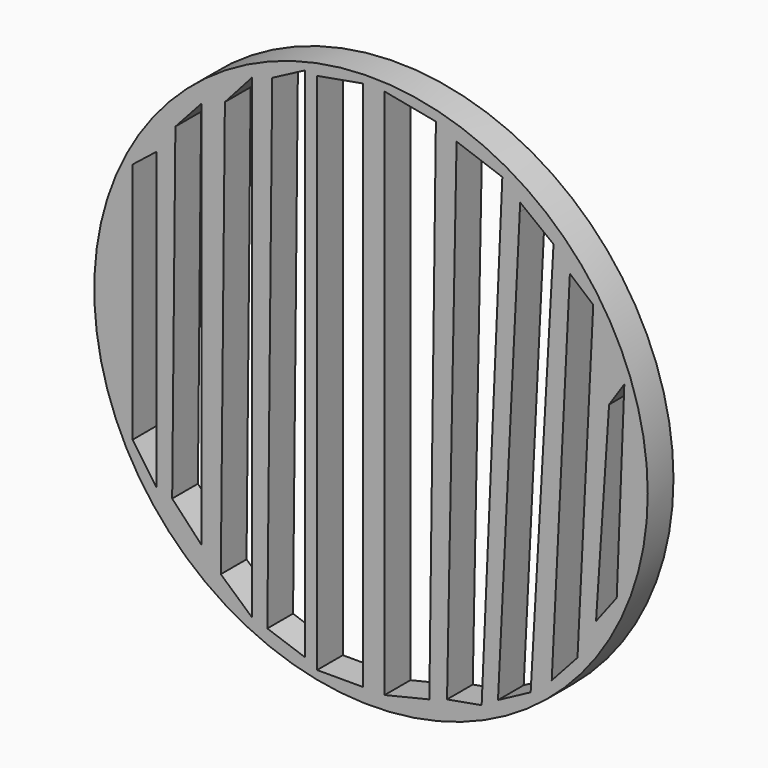
from build123d import *

# Parameters (mm, degrees)
F0_R     = 25.81628
F1_DEPTH = 3
F3_DEPTH = 25
F5_DEPTH = 25


with BuildPart() as f1:
    # F0 (on Front) → F1 (new body)
    with BuildSketch(Plane.XZ):
        Circle(F0_R)
    extrude(amount=F1_DEPTH)

    # F2 (on face) → F3 (cut)
    with BuildSketch(Plane.XZ.offset(3)):
        Polygon((-22.232322, 11.412702), (-22.232322, -11.196028), (-20.024735, -14.393222), (-20.024735, 13.163546), align=None)
        Polygon((-11.118267, 22.146139), (-13.630347, 19.329563), (-14.010966, -19.569632), (-11.118267, -22.157835), align=None)
        Polygon((-6.170227, 24.353726), (-9.215174, 22.755129), (-9.671916, -22.61458), (-6.170227, -23.832556), align=None)
        Polygon((-0.765447, -24.51767), (-0.765447, 25.038838), (-5.028372, 24.277601), (-5.028372, -24.51767), align=None)
        Polygon((5.443127, -23.527138), (6.052805, 24.129314), (1.276998, 25.038838), (1.276998, -24.51767), align=None)
        Polygon((12.251193, 21.588992), (7.98345, 23.113187), (7.092044, -22.985913), (10.320548, -22.409394), align=None)
        Polygon((17.026998, 17.62609), (13.876999, 20.064799), (13.876999, 19.251894), (11.844741, -21.49488), (14.893129, -19.869074), align=None)
        Polygon((20.731321, 13.848901), (18.551191, 15.695445), (16.85815, -18.250049), (19.262481, -15.60133), align=None)
        Polygon((23.631837, 8.277702), (22.209259, 6.143831), (20.9899, -12.04488), (22.920547, -9.504557), align=None)
    extrude(amount=-F3_DEPTH, mode=Mode.SUBTRACT)

    # F4 (on face) → F5 (cut)
    with BuildSketch(Plane.XZ.offset(3)):
        Polygon((-15.8276, 18.478015), (-18.247107, 15.816556), (-18.547006, -14.833115), (-15.8276, -17.733933), align=None)
    extrude(amount=-F5_DEPTH, mode=Mode.SUBTRACT)


solid = f1.part
